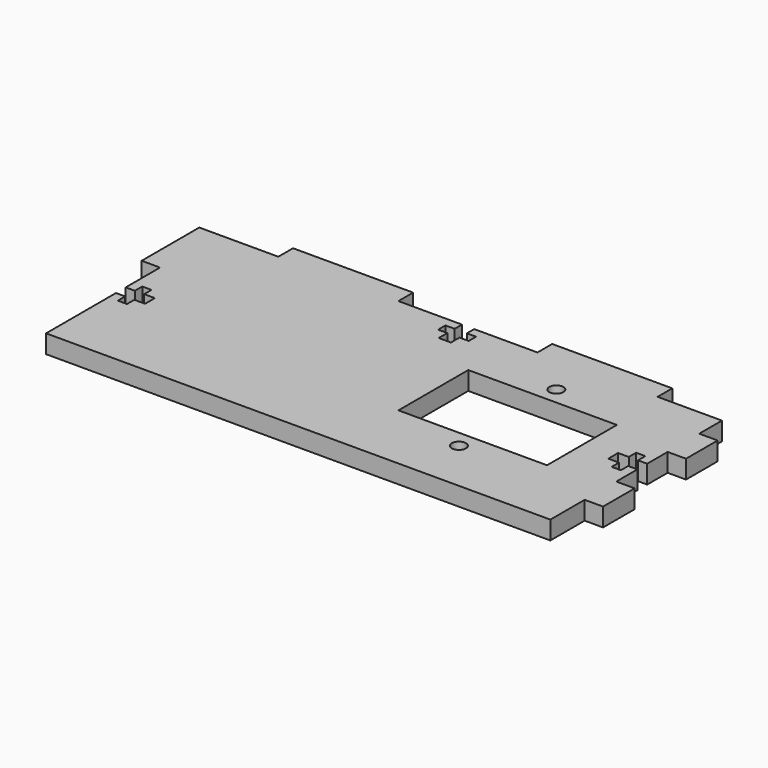
from build123d import *

# Parameters (mm, degrees)
F0_R     = 2.3
F0_W     = 48.5
F0_H     = 28.5
F0_W_2   = 6
F0_H_2   = 23.5
F0_W_3   = 39.2
F0_H_3   = 6
F0_H_4   = 12.9
F1_DEPTH = 6


with BuildPart() as f1:
    # F0 (on Top) → F1 (new body)
    with BuildSketch(Plane.XY):
        Polygon((-62.5, 35), (-82.3, 35), (-82.3, 11.5), (-82.3, -2.5), (-79.3, -2.5), (-79.3, 0.5), (-76.3, 0.5), (-76.3, -2.5), (-72.8, -2.5), (-72.8, -4.5), (-72.8, -6.5), (-76.3, -6.5), (-76.3, -9.5), (-79.3, -9.5), (-79.3, -6.5), (-82.3, -6.5), (-82.3, -35), (82.3, -35), (82.3, -21), (82.3, -8.1), (82.3, 0.5), (79.3, 0.5), (79.3, -2.5), (76.3, -2.5), (76.3, 0.5), (72.8, 0.5), (72.8, 4.5), (76.3, 4.5), (76.3, 7.5), (79.3, 7.5), (79.3, 4.5), (82.3, 4.5), (82.3, 12.85), (82.3, 25.75), (82.3, 35), (61.3, 35), (22.1, 35), (1.45, 35), (1.45, 32), (4.45, 32), (4.45, 29), (1.45, 29), (1.45, 25.5), (-2.55, 25.5), (-2.55, 29), (-5.55, 29), (-5.55, 32), (-2.55, 32), (-2.55, 35), (-23.3, 35), align=None)
        with Locations((38.636842, -17.724174)):
            Circle(F0_R, mode=Mode.SUBTRACT)
        with Locations((38.636842, 2.150826)):
            Rectangle(F0_W, F0_H, mode=Mode.SUBTRACT)
        with Locations((38.636842, 22.025826)):
            Circle(F0_R, mode=Mode.SUBTRACT)
        with Locations((-85.3, 23.25)):
            Rectangle(F0_W_2, F0_H_2)
        with Locations((-42.9, 38)):
            Rectangle(F0_W_3, F0_H_3)
        with Locations((41.7, 38)):
            Rectangle(F0_W_3, F0_H_3)
        with Locations((85.3, 19.3)):
            Rectangle(F0_W_2, F0_H_4)
        with Locations((85.3, -14.55)):
            Rectangle(F0_W_2, F0_H_4)
    extrude(amount=F1_DEPTH)


solid = f1.part
